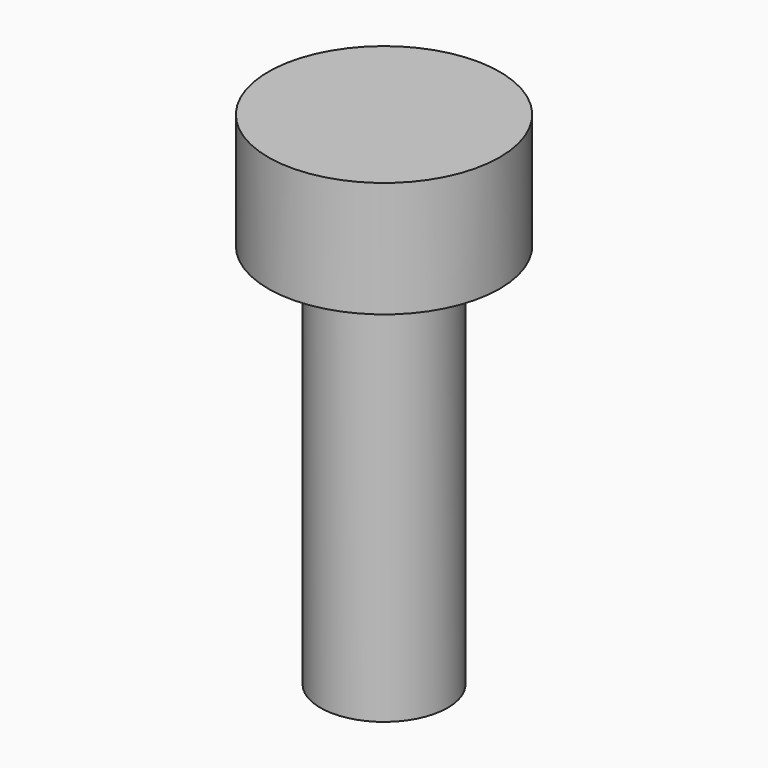
from build123d import *

# Parameters (mm, degrees)
CYLINDER003_R     = 3
CYLINDER003_DEPTH = 3
CYLINDER002_R     = 1.65
CYLINDER002_DEPTH = 10


with BuildPart() as cylinder003:
    # Cylinder003 → Cylinder003 (new body)
    with BuildSketch(Plane.XY.offset(10)):
        Circle(CYLINDER003_R)
    extrude(amount=CYLINDER003_DEPTH)


with BuildPart() as m3_outer_slot:
    # Cylinder002 → Cylinder002 (new body)
    with BuildSketch(Plane.XY):
        Circle(CYLINDER002_R)
    extrude(amount=CYLINDER002_DEPTH)

    # Fusion020006007003002010: union Cylinder003
    add(cylinder003.part)


solid = m3_outer_slot.part
